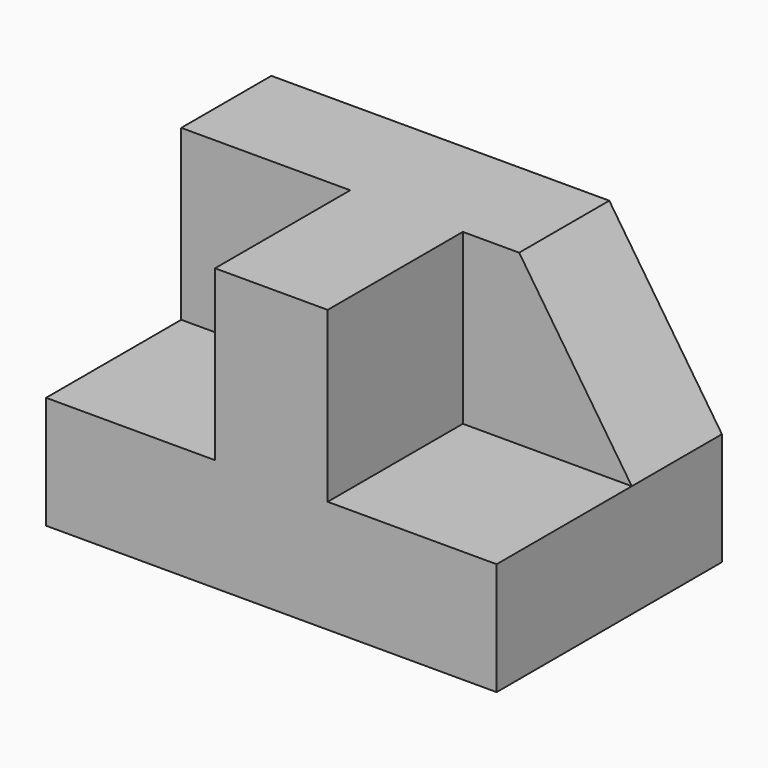
from build123d import *

# Parameters (mm, degrees)
F0_W     = 50.8
F0_H     = 31.75
F1_DEPTH = 31.75
F2_W     = 19.05
F2_H     = 19.05
F3_DEPTH = 19.05
F4_W     = 19.05
F4_H     = 19.05
F5_DEPTH = 19.05
F7_DEPTH = 12.7


with BuildPart() as f1:
    # F0 (on Front) → F1 (new body)
    with BuildSketch(Plane.XZ):
        with Locations((-25.4, 15.875)):
            Rectangle(F0_W, F0_H)
    extrude(amount=F1_DEPTH)

    # F2 (on face) → F3 (cut)
    with BuildSketch(Plane.XY.offset(31.75)):
        with Locations((-9.525, -22.225)):
            Rectangle(F2_W, F2_H)
    extrude(amount=-F3_DEPTH, mode=Mode.SUBTRACT)

    # F4 (on face) → F5 (cut)
    with BuildSketch(Plane.XZ.offset(31.75)):
        with Locations((-41.275, 22.225)):
            Rectangle(F4_W, F4_H)
    extrude(amount=-F5_DEPTH, mode=Mode.SUBTRACT)

    # F6 (on face) → F7 (cut)
    with BuildSketch(Plane.XZ.offset(12.7)):
        Polygon((0, 31.75), (-12.7, 31.75), (0, 12.7), align=None)
    extrude(amount=-F7_DEPTH, mode=Mode.SUBTRACT)


solid = f1.part
